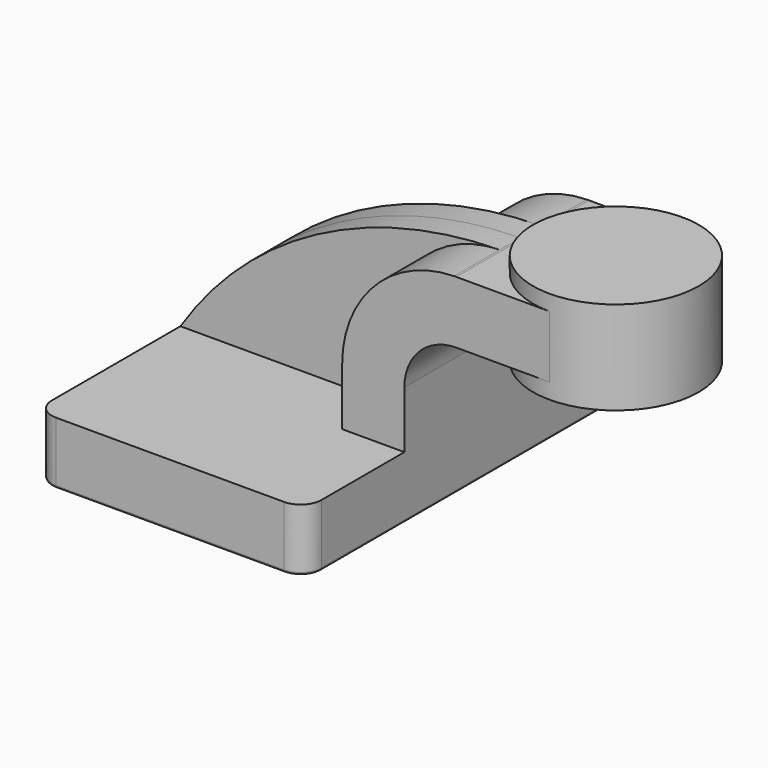
from build123d import *

# Parameters (mm, degrees)
F1_DEPTH = 63.5
F0_W     = 25.4
F0_H     = 19.05
F2_DEPTH = 25.4
F3_DEPTH = 7.9375
F5_R     = 6.35
F6_R     = 0.762


with BuildPart() as f1:
    # F0 (on Front) → F1 (new body, symmetric)
    with BuildSketch(Plane.XZ):
        Polygon((41.275, -9.525), (41.275, 9.525), (22.225, 9.525), (-41.275, 9.525), (-41.275, -9.525), align=None)
    extrude(amount=F1_DEPTH, both=True)

    # F0 (on Front) → F2 (join, symmetric)
    with BuildSketch(Plane.XZ):
        with BuildLine():
            Line((22.225, 9.525), (41.275, 9.525))
            Line((41.275, 9.525), (41.275, 27.0002))
            ThreePointArc((41.275, 27.0002), (45.9246798487, 38.2255201513), (57.15, 42.8752))
            Line((57.15, 42.8752), (60.325, 42.8752))
            Line((60.325, 42.8752), (60.325, 61.9252))
            Line((60.325, 61.9252), (57.15, 61.9252))
            add(Edge.make_bspline(
                [(56.5144411646, 61.9194166288), (56.7262412244, 61.9218660962), (56.9380948845, 61.9237939637), (57.15, 61.9252)],
                knots=[110.8989098022, 110.8989098022, 110.8989098022, 110.8989098022, 111.5045361635, 111.5045361635, 111.5045361635, 111.5045361635], degree=3))
            ThreePointArc((56.5144411646, 61.9194166288), (32.2306047693, 51.4701686623), (22.225, 27.0002))
            Line((22.225, 27.0002), (22.225, 9.525))
        make_face()
        with Locations((73.025, 52.4002)):
            Rectangle(F0_W, F0_H)
    extrude(amount=F2_DEPTH, both=True)

    # F0 (on Front) → F3 (join, symmetric)
    with BuildSketch(Plane.XZ):
        with BuildLine():
            Line((-41.275, 9.525), (22.225, 9.525))
            Line((22.225, 9.525), (22.225, 27.0002))
            ThreePointArc((22.225, 27.0002), (32.2306047693, 51.4701686623), (56.5144411646, 61.9194166288))
            add(Edge.make_bspline(
                [(-41.275, 9.525), (-19.2555756955, 43.5326460608), (17.7307995872, 61.4708838699), (56.5144411646, 61.9194166288)],
                knots=[0, 0, 0, 0, 110.8989098022, 110.8989098022, 110.8989098022, 110.8989098022], degree=3))
        make_face()
    extrude(amount=F3_DEPTH, both=True)

    # F0 (on Front) → F4 (revolve)
    with BuildSketch(Plane.XZ):
        Polygon((85.725, 61.9252), (85.725, 42.8752), (85.725, 38.1), (111.125, 38.1), (111.125, 66.675), (85.725, 66.675), align=None)
    revolve(axis=Axis((85.725, 0, 52.3875), (0, 0, 1)))

    # F5
    f5_edges = [f1.edges().sort_by_distance(p)[0] for p in [
        (-41.275, -63.5, 0),
        (41.275, -63.5, 0),
        (41.275, 63.5, 0),
        (-41.275, 63.5, 0),
    ]]
    fillet(f5_edges, radius=F5_R)

    # F6
    f6_edges = [f1.edges().sort_by_distance(p)[0] for p in [
        (0, 63.5, -9.525),
        (-39.415128, 61.640128, -9.525),
        (39.415128, 61.640128, -9.525),
        (-41.275, 0, -9.525),
        (41.275, 0, -9.525),
        (-39.415128, -61.640128, -9.525),
        (39.415128, -61.640128, -9.525),
        (0, -63.5, -9.525),
    ]]
    fillet(f6_edges, radius=F6_R)


solid = f1.part
